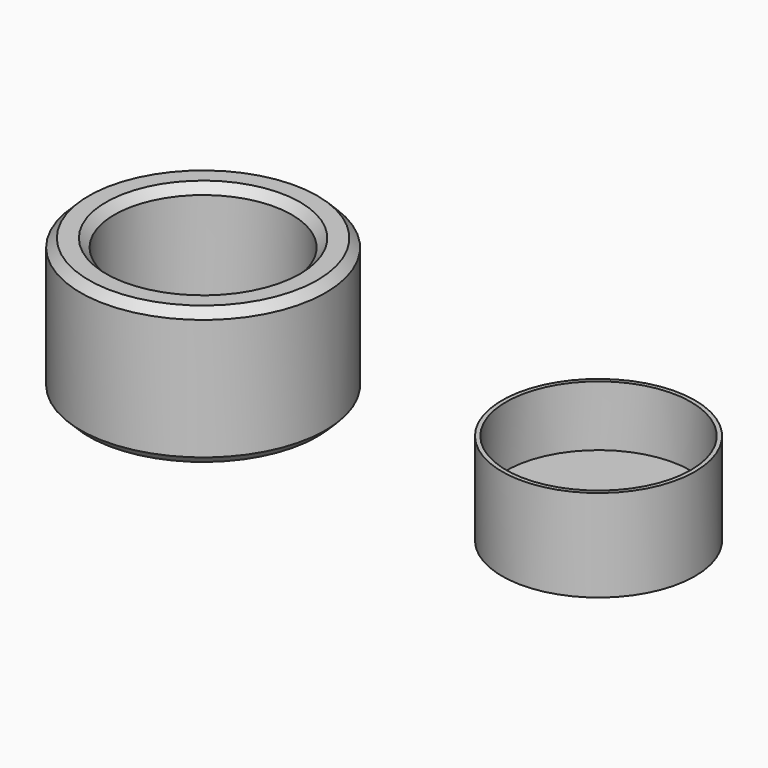
from build123d import *

# Parameters (mm, degrees)
F0_R     = 14.9225
F0_R_2   = 10.795
F1_DEPTH = 16.764
F2_SIZE  = 1.016
F3_R     = 11.7475
F4_DEPTH = 3.8354
F5_R     = 11.7475
F5_R_2   = 11.2395
F6_DEPTH = 7.366


with BuildPart() as f1:
    # F0 (on Top) → F1 (new body)
    with BuildSketch(Plane.XY):
        Circle(F0_R)
        Circle(F0_R_2, mode=Mode.SUBTRACT)
    extrude(amount=F1_DEPTH)

    # F2
    f2_edges = [f1.edges().sort_by_distance(p)[0] for p in [
        (-10.795, 0, 16.764),
        (-14.9225, 0, 16.764),
        (-10.795, 0, 0),
        (-14.9225, 0, 0),
    ]]
    chamfer(f2_edges, length=F2_SIZE)


with BuildPart() as f4:
    # F3 (on Top) → F4 (new body)
    with BuildSketch(Plane.XY):
        with Locations((48.124437, 0)):
            Circle(F3_R)
    extrude(amount=F4_DEPTH)

    # F5 (on face) → F6 (join)
    with BuildSketch(Plane.XY.offset(3.8354)):
        with Locations((48.124437, 0)):
            Circle(F5_R)
        with Locations((48.124437, 0)):
            Circle(F5_R_2, mode=Mode.SUBTRACT)
    extrude(amount=F6_DEPTH)


solid = Compound([f1.part, f4.part])
